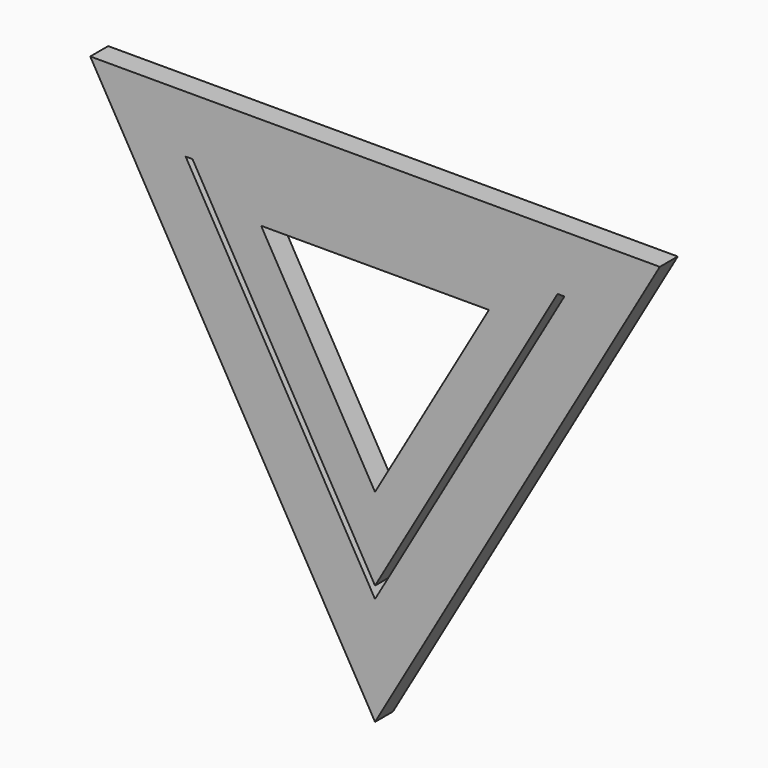
from build123d import *

# Parameters (mm, degrees)
F1_DEPTH = 1


with BuildPart() as f1:
    # F0 (on Front) → F1 (new body)
    with BuildSketch(Plane.XZ):
        Polygon((12.7, 0), (-12.7, 0), (0, -21.997045), align=None)
        Polygon((0, -17.17454), (-8.4455, -2.546505), (-8.1407, -2.546505), (0, -16.646611), (8.1407, -2.546505), (8.4455, -2.546505), align=None, mode=Mode.SUBTRACT)
        Polygon((0, -12.969083), (-5.08, -4.170265), (5.08, -4.170265), align=None, mode=Mode.SUBTRACT)
    extrude(amount=F1_DEPTH)


solid = f1.part
